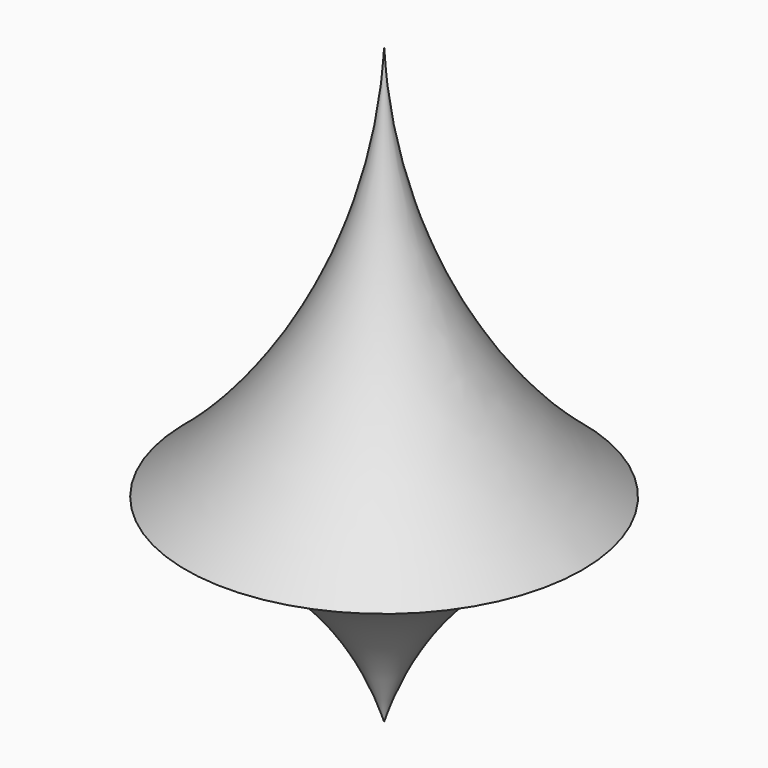
from build123d import *

# Parameters (mm, degrees)
F3_DEPTH = 33.4


with BuildPart() as f1:
    # F0 (on Front) → F1 (revolve)
    with BuildSketch(Plane.XZ):
        with BuildLine():
            ThreePointArc((0, 0), (7.495083, 12.504917), (20, 20))
            ThreePointArc((20, 20), (5.750915, 37.875457), (0, 60))
            Line((0, 60), (0, 0))
        make_face()
    revolve(axis=Axis((0, 0, 14.251408), (0, 0, 1)))

    # F2 (on Top) → F3 (cut)
    with BuildSketch(Plane.XY):
        with BuildLine():
            Line((0, 11.01789), (4, 19.595918))
            ThreePointArc((4, 19.595918), (0, 20), (-4, 19.595918))
            Line((-4, 19.595918), (0, 11.01789))
        make_face()
    extrude(amount=F3_DEPTH, mode=Mode.SUBTRACT)


solid = f1.part
